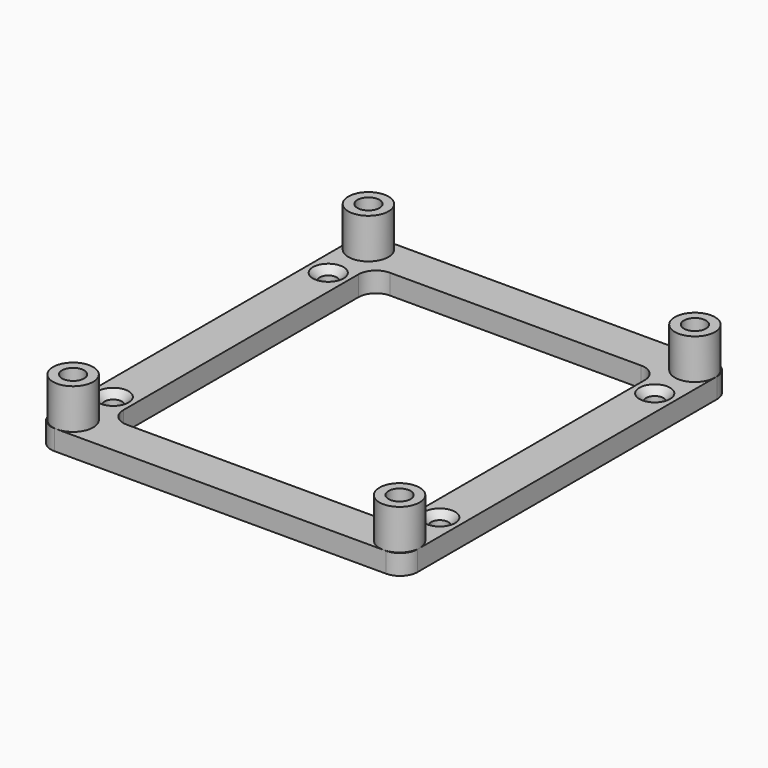
from build123d import *

# Parameters (mm, degrees)
SKETCH_R                     = 4
PAD_DEPTH                    = 12
SKETCH001_R                  = 2.2
POCKET_DEPTH                 = 6
SKETCH002_W                  = 73
SKETCH002_H                  = 81.5
SKETCH002_W_2                = 57
SKETCH002_H_2                = 65.5
PAD001_DEPTH                 = 4
SKETCH_LINEARPATTERN_2_R     = 4
PAD_LINEARPATTERN_2_DEPTH    = 12
SKETCH001_LINEARPATTERN_2_R  = 2.2
POCKET_LINEARPATTERN_2_DEPTH = 6
LINEARPATTERN001_COUNT       = 2
LINEARPATTERN001_PITCH       = 73.5
FILLET_R                     = 3.5
FILLET001_R                  = 3.5
HOLE_D                       = 3.4
HOLE_DEPTH                   = 25
HOLE_CSINK_D                 = 6.1
HOLE_CSINK_ANGLE             = 90


with BuildPart() as part:
    # Sketch → Pad (new body)
    with BuildSketch(Plane.XY):
        Circle(SKETCH_R)
    pad = extrude(amount=PAD_DEPTH)

    # Sketch001 → Pocket (cut)
    with BuildSketch(Plane.XY.offset(12)):
        Circle(SKETCH001_R)
    pocket = extrude(amount=-POCKET_DEPTH, mode=Mode.SUBTRACT)

    # Sketch002 → Pad001 (join)
    with BuildSketch(Plane.XY):
        with Locations((32.5, 36.75)):
            Rectangle(SKETCH002_W, SKETCH002_H)
        with Locations((32.5, 36.75)):
            Rectangle(SKETCH002_W_2, SKETCH002_H_2, mode=Mode.SUBTRACT)
    extrude(amount=PAD001_DEPTH)

    # Sketch LinearPattern 2 → Pad LinearPattern 2 (add)
    with BuildSketch(Plane(origin=(65, 0, 0), x_dir=(1, 0, 0), z_dir=(0, 0, 1))):
        Circle(SKETCH_LINEARPATTERN_2_R)
    pad_linearpattern_2 = extrude(amount=PAD_LINEARPATTERN_2_DEPTH)

    # Sketch001 LinearPattern 2 → Pocket LinearPattern 2 (cut)
    with BuildSketch(Plane(origin=(65, 0, 12), x_dir=(1, 0, 0), z_dir=(0, 0, 1))):
        Circle(SKETCH001_LINEARPATTERN_2_R)
    pocket_linearpattern_2 = extrude(amount=-POCKET_LINEARPATTERN_2_DEPTH, mode=Mode.SUBTRACT)

    # LinearPattern001: Pad, Pocket, Pad LinearPattern 2, Pocket LinearPattern 2 ×2
    with Locations(*[(0, i * LINEARPATTERN001_PITCH, 0) for i in range(1, LINEARPATTERN001_COUNT)]):
        add(pad)
        add(pocket, mode=Mode.SUBTRACT)
        add(pad_linearpattern_2)
        add(pocket_linearpattern_2, mode=Mode.SUBTRACT)

    # Fillet
    fillet_edges = [part.edges().sort_by_distance(p)[0] for p in [
        (-4, -4, 2),
        (69, -4, 2),
        (69, 77.5, 2),
        (-4, 77.5, 2),
    ]]
    fillet(fillet_edges, radius=FILLET_R)

    # Fillet001
    fillet001_edges = [part.edges().sort_by_distance(p)[0] for p in [
        (61, 4, 2),
        (4, 4, 2),
        (4, 69.5, 2),
        (61, 69.5, 2),
    ]]
    fillet(fillet001_edges, radius=FILLET001_R)

    # Hole
    with Locations(Plane.XY.offset(4)):
        with Locations((0, 63.5), (65, 63.5), (65, 10), (0, 10)):
            CounterSinkHole(HOLE_D / 2, HOLE_CSINK_D / 2, depth=HOLE_DEPTH, counter_sink_angle=HOLE_CSINK_ANGLE)


solid = part.part
